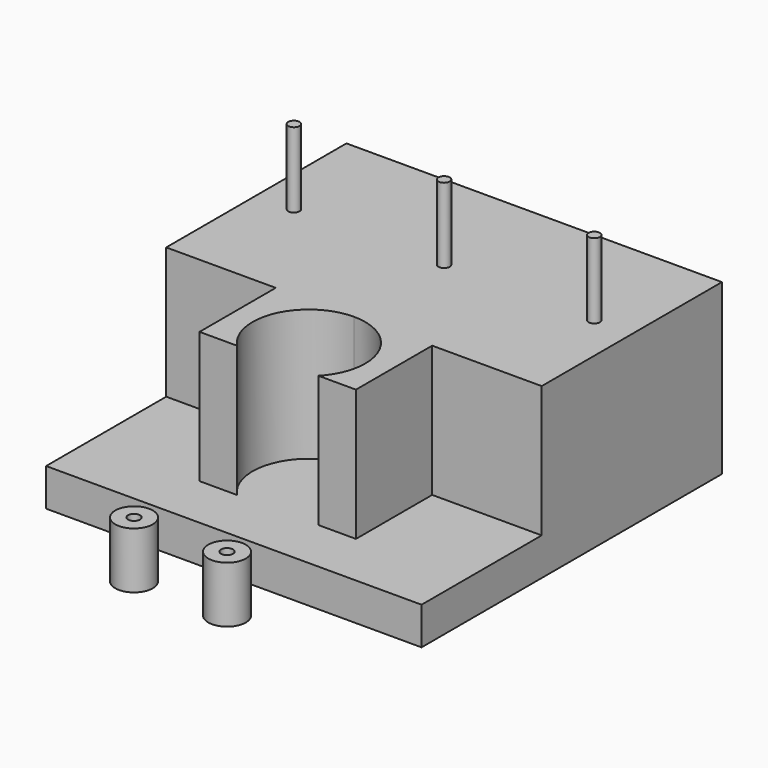
from build123d import *

# Parameters (mm, degrees)
F0_W     = 100
F0_H     = 100
F1_DEPTH = 10
F3_DEPTH = 35
F4_R     = 1.5
F5_DEPTH = 20
F0_R     = 5
F0_R_2   = 1.6
F6_DEPTH = 15


with BuildPart() as f1:
    # F0 (on Top) → F1 (new body)
    with BuildSketch(Plane.XY):
        with Locations((6.96941, 18.668353)):
            Rectangle(F0_W, F0_H)
    extrude(amount=F1_DEPTH)

    # F2 (on face) → F3 (join)
    with BuildSketch(Plane.XY.offset(10)):
        Polygon((56.96941, 68.668353), (-43.03059, 68.668353), (-43.03059, 8.668353), (-13.861457, 8.668353), (6.96941, 8.668353), (27.800277, 8.668353), (56.96941, 8.668353), align=None)
        with BuildLine():
            Line((6.96941, 8.668353), (-13.861457, 8.668353))
            Line((-13.861457, 8.668353), (-13.861457, -16.709138))
            Line((-13.861457, -16.709138), (-3.861457, -16.709138))
            ThreePointArc((-3.861457, -16.709138), (-6.826647, -0.443624), (6.96941, 8.668353))
        make_face()
        with BuildLine():
            Line((27.800277, -16.709138), (27.800277, 8.668353))
            Line((27.800277, 8.668353), (6.96941, 8.668353))
            ThreePointArc((6.96941, 8.668353), (17.576012, 4.274955), (21.96941, -6.331647))
            ThreePointArc((21.96941, -6.331647), (20.888157, -11.923472), (17.800277, -16.709138))
            Line((17.800277, -16.709138), (27.800277, -16.709138))
        make_face()
    extrude(amount=F3_DEPTH)

    # F4 (on face) → F5 (join)
    with BuildSketch(Plane.XY.offset(45)):
        with Locations((-33.03059, 38.668353)):
            Circle(F4_R)
        with Locations((6.96941, 38.668353)):
            Circle(F4_R)
        with Locations((46.96941, 38.668353)):
            Circle(F4_R)
    extrude(amount=F5_DEPTH)


with BuildPart() as f6:
    # F0 (on Top) → F6 (new body)
    with BuildSketch(Plane.XY):
        with Locations((-8.293748, -45.463823)):
            Circle(F0_R)
        with Locations((-8.293748, -45.463823)):
            Circle(F0_R_2, mode=Mode.SUBTRACT)
        with Locations((16.442623, -45.421229)):
            Circle(F0_R)
        with Locations((16.442623, -45.421229)):
            Circle(F0_R_2, mode=Mode.SUBTRACT)
    extrude(amount=F6_DEPTH)


solid = Compound([f1.part, f6.part])
